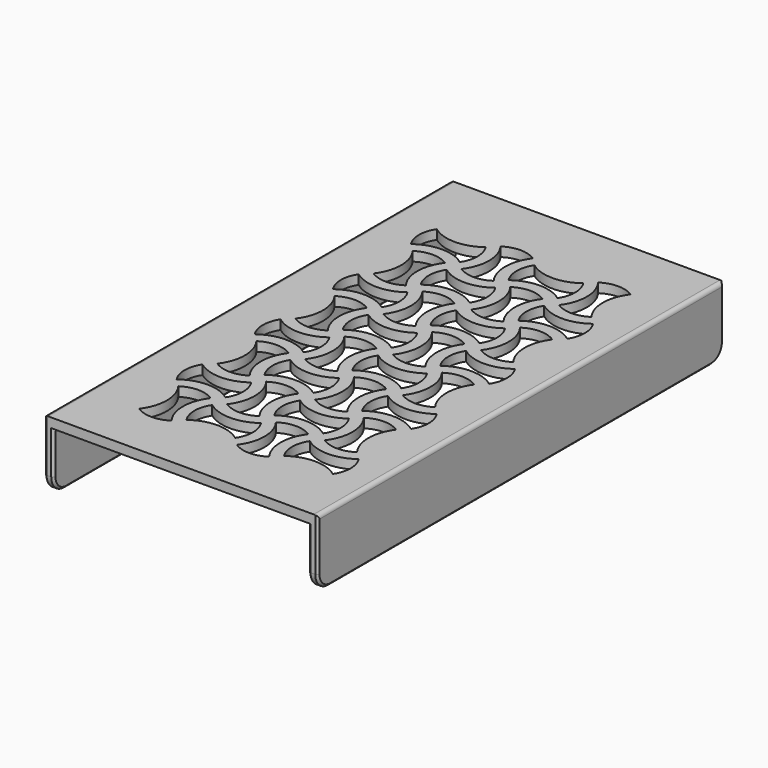
from build123d import *

# Parameters (mm, degrees)
PAD003_DEPTH                            = 65
FILLET004_R                             = 4
CHAMFER_SIZE                            = 0.6
POCKET004_DEPTH                         = 297.34094
POCKET004_DEPTH_BACK                    = 314.74094
POCKET004_LINEARPATTERN001_2_DEPTH      = 297.34094
POCKET004_LINEARPATTERN001_2_DEPTH_BACK = 314.74094
LINEARPATTERN002_COUNT                  = 4
LINEARPATTERN002_PITCH                  = 25
FILLET005_R                             = 1


with BuildPart() as part:
    # Sketch011 → Pad003 (new body, symmetric)
    with BuildSketch(Plane.XZ):
        Polygon((-35, 0), (-32.6, 0), (-32.6, 15), (32.6, 15), (32.6, 0), (35, 0), (35, 17.4), (-35, 17.4), align=None)
    extrude(amount=PAD003_DEPTH, both=True)

    # Fillet004
    fillet004_edges = [part.edges().sort_by_distance(p)[0] for p in [
        (-33.8, -65, 0),
        (33.8, -65, 0),
        (-33.8, 65, 0),
        (33.8, 65, 0),
    ]]
    fillet(fillet004_edges, radius=FILLET004_R)

    # Chamfer
    chamfer_edges = [part.edges().sort_by_distance(p)[0] for p in [
        (-35, 0, 0),
        (-33.8, 61, 0),
        (-33.8, -61, 0),
        (-32.6, 0, 0),
        (35, 0, 0),
        (33.8, 61, 0),
        (33.8, -61, 0),
        (32.6, 0, 0),
    ]]
    chamfer(chamfer_edges, length=CHAMFER_SIZE)

    # Sketch013 → Pocket004 (cut, two sides)
    with BuildSketch(Plane.XY) as pocket004_sk:
        with BuildLine():
            ThreePointArc((-23.93934, 46.818019), (-17.68934, 44.742259), (-11.43934, 46.818019))
            ThreePointArc((-11.43934, 38.56066), (-10.198779, 42.68934), (-11.43934, 46.818019))
            ThreePointArc((-11.43934, 38.56066), (-17.68934, 40.636421), (-23.93934, 38.56066))
            ThreePointArc((-23.93934, 46.818019), (-25.1799, 42.68934), (-23.93934, 38.56066))
        make_face()
        with BuildLine():
            ThreePointArc((-1.06066, 48.93934), (-5.18934, 50.1799), (-9.318019, 48.93934))
            ThreePointArc((-9.318019, 36.43934), (-7.242259, 42.68934), (-9.318019, 48.93934))
            ThreePointArc((-9.318019, 36.43934), (-5.18934, 35.198779), (-1.06066, 36.43934))
            ThreePointArc((-1.06066, 48.93934), (-3.136421, 42.68934), (-1.06066, 36.43934))
        make_face()
        with BuildLine():
            ThreePointArc((-13.56066, 36.43934), (-17.68934, 37.6799), (-21.818019, 36.43934))
            ThreePointArc((-21.818019, 23.93934), (-19.742259, 30.18934), (-21.818019, 36.43934))
            ThreePointArc((-21.818019, 23.93934), (-17.68934, 22.698779), (-13.56066, 23.93934))
            ThreePointArc((-13.56066, 36.43934), (-15.636421, 30.18934), (-13.56066, 23.93934))
        make_face()
        with BuildLine():
            ThreePointArc((-11.43934, 34.318019), (-12.6799, 30.18934), (-11.43934, 26.06066))
            ThreePointArc((1.06066, 26.06066), (-5.18934, 28.136421), (-11.43934, 26.06066))
            ThreePointArc((1.06066, 26.06066), (2.301221, 30.18934), (1.06066, 34.318019))
            ThreePointArc((-11.43934, 34.318019), (-5.18934, 32.242259), (1.06066, 34.318019))
        make_face()
    pocket004 = extrude(amount=-POCKET004_DEPTH, mode=Mode.SUBTRACT) + extrude(pocket004_sk.sketch, amount=POCKET004_DEPTH_BACK, mode=Mode.SUBTRACT)

    # Sketch013 LinearPattern001 2 → Pocket004 LinearPattern001 2 (cut, two sides)
    with BuildSketch(Plane(origin=(25, 0, 0), x_dir=(1, 0, 0), z_dir=(0, 0, 1))) as pocket004_linearpattern001_2_sk:
        with BuildLine():
            ThreePointArc((-23.93934, 46.818019), (-17.68934, 44.742259), (-11.43934, 46.818019))
            ThreePointArc((-11.43934, 38.56066), (-10.198779, 42.68934), (-11.43934, 46.818019))
            ThreePointArc((-11.43934, 38.56066), (-17.68934, 40.636421), (-23.93934, 38.56066))
            ThreePointArc((-23.93934, 46.818019), (-25.1799, 42.68934), (-23.93934, 38.56066))
        make_face()
        with BuildLine():
            ThreePointArc((-1.06066, 48.93934), (-5.18934, 50.1799), (-9.318019, 48.93934))
            ThreePointArc((-9.318019, 36.43934), (-7.242259, 42.68934), (-9.318019, 48.93934))
            ThreePointArc((-9.318019, 36.43934), (-5.18934, 35.198779), (-1.06066, 36.43934))
            ThreePointArc((-1.06066, 48.93934), (-3.136421, 42.68934), (-1.06066, 36.43934))
        make_face()
        with BuildLine():
            ThreePointArc((-13.56066, 36.43934), (-17.68934, 37.6799), (-21.818019, 36.43934))
            ThreePointArc((-21.818019, 23.93934), (-19.742259, 30.18934), (-21.818019, 36.43934))
            ThreePointArc((-21.818019, 23.93934), (-17.68934, 22.698779), (-13.56066, 23.93934))
            ThreePointArc((-13.56066, 36.43934), (-15.636421, 30.18934), (-13.56066, 23.93934))
        make_face()
        with BuildLine():
            ThreePointArc((-11.43934, 34.318019), (-12.6799, 30.18934), (-11.43934, 26.06066))
            ThreePointArc((1.06066, 26.06066), (-5.18934, 28.136421), (-11.43934, 26.06066))
            ThreePointArc((1.06066, 26.06066), (2.301221, 30.18934), (1.06066, 34.318019))
            ThreePointArc((-11.43934, 34.318019), (-5.18934, 32.242259), (1.06066, 34.318019))
        make_face()
    pocket004_linearpattern001_2 = extrude(amount=-POCKET004_LINEARPATTERN001_2_DEPTH, mode=Mode.SUBTRACT) + extrude(pocket004_linearpattern001_2_sk.sketch, amount=POCKET004_LINEARPATTERN001_2_DEPTH_BACK, mode=Mode.SUBTRACT)

    # LinearPattern002: Pocket004, Pocket004 LinearPattern001 2 ×4
    with Locations(*[(0, -i * LINEARPATTERN002_PITCH, 0) for i in range(1, LINEARPATTERN002_COUNT)]):
        add(pocket004, mode=Mode.SUBTRACT)
        add(pocket004_linearpattern001_2, mode=Mode.SUBTRACT)

    # Fillet005
    fillet005_edges = [part.edges().sort_by_distance(p)[0] for p in [
        (35, 0, 17.4),
        (-35, 0, 17.4),
        (-32.6, 0, 15),
        (32.6, 0, 15),
    ]]
    fillet(fillet005_edges, radius=FILLET005_R)


solid = part.part
